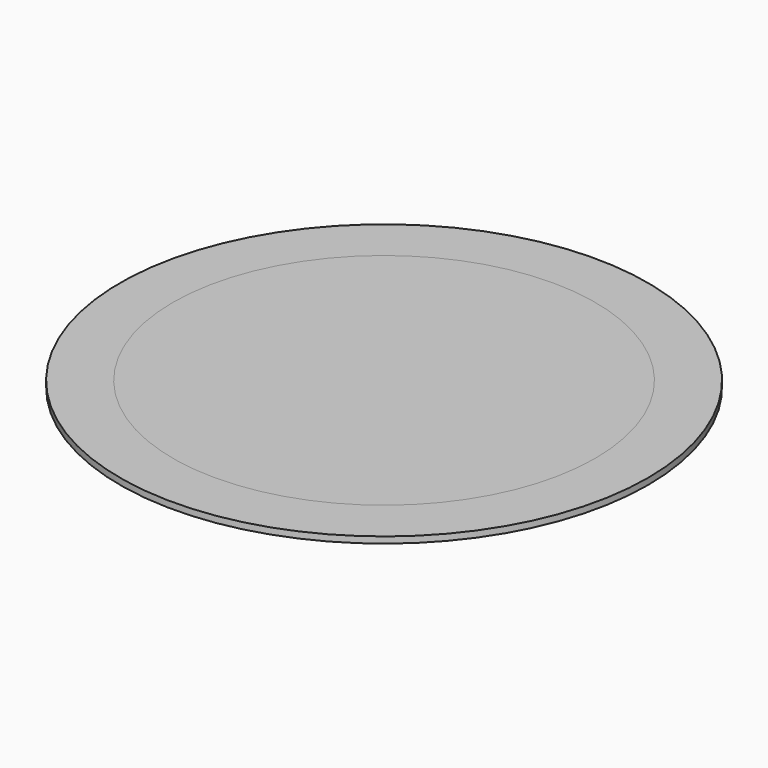
from build123d import *

# Parameters (mm, degrees)
F0_R     = 125
F0_R_2   = 100
F0_R_3   = 90
F1_DEPTH = 3
F2_DEPTH = 3


with BuildPart() as f1:
    # F0 (on Top) → F1 (new body)
    with BuildSketch(Plane.XY):
        Circle(F0_R)
        Circle(F0_R_2, mode=Mode.SUBTRACT)
        Circle(F0_R_2)
        Circle(F0_R_3, mode=Mode.SUBTRACT)
        Circle(F0_R_3)
    extrude(amount=F1_DEPTH)


with BuildPart() as f2:
    # F0 (on Top) → F2 (new body)
    with BuildSketch(Plane.XY):
        Circle(F0_R_2)
        Circle(F0_R_3, mode=Mode.SUBTRACT)
        Circle(F0_R_3)
    extrude(amount=F2_DEPTH)


solid = Compound([f1.part, f2.part])
